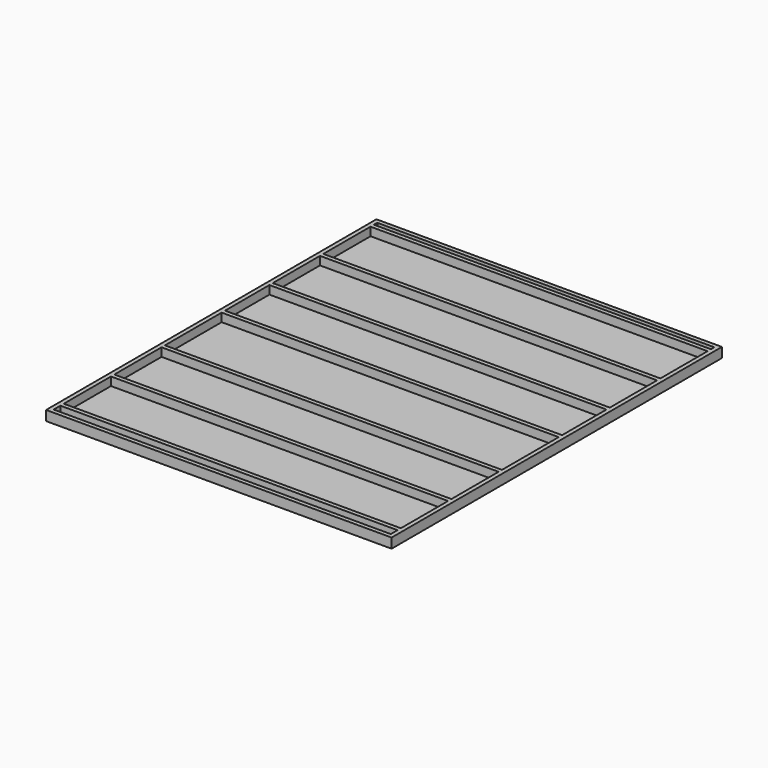
from build123d import *

# Parameters (mm, degrees)
F0_W     = 3124.2
F0_H     = 3733.8
F1_DEPTH = 12.7
F2_W     = 3048
F2_H     = 38.1
F3_DEPTH = 76.2


with BuildPart() as f1:
    # F0 (on Top) → F1 (new body)
    with BuildSketch(Plane.XY):
        Rectangle(F0_W, F0_H)
    extrude(amount=F1_DEPTH)

    # F2 (on face) → F3 (join)
    with BuildSketch(Plane.XY.offset(12.7)):
        Polygon((1562.1, 1866.9), (-1562.1, 1866.9), (-1562.1, 1828.8), (-1524, 1828.8), (1524, 1828.8), (1562.1, 1828.8), align=None)
        Polygon((-1524, 1828.8), (-1562.1, 1828.8), (-1562.1, -1828.8), (-1524, -1828.8), (-1524, -1752.6), (-1524, -1714.5), (-1524, -1181.1), (-1524, -1143), (-1524, -609.6), (-1524, -571.5), (-1524, 69.85), (-1524, 107.95), (-1524, 609.6), (-1524, 647.7), (-1524, 1181.1), (-1524, 1219.2), (-1524, 1752.6), (-1524, 1790.7), align=None)
        Polygon((1562.1, -1828.8), (1562.1, 1828.8), (1524, 1828.8), (1524, 1790.7), (1524, 1752.6), (1524, 1219.2), (1524, 1181.1), (1524, 647.7), (1524, 609.6), (1524, 107.95), (1524, 69.85), (1524, -38.1), (1524, -571.5), (1524, -609.6), (1524, -1143), (1524, -1181.1), (1524, -1714.5), (1524, -1752.6), (1524, -1828.8), align=None)
        Polygon((-1524, -1828.8), (-1562.1, -1828.8), (-1562.1, -1866.9), (1562.1, -1866.9), (1562.1, -1828.8), (1524, -1828.8), align=None)
        with Locations((0, 1771.65)):
            Rectangle(F2_W, F2_H)
        with Locations((0, 1200.15)):
            Rectangle(F2_W, F2_H)
        with Locations((0, 628.65)):
            Rectangle(F2_W, F2_H)
        with Locations((0, 88.9)):
            Rectangle(F2_W, F2_H)
        with Locations((0, -590.55)):
            Rectangle(F2_W, F2_H)
        with Locations((0, -1733.55)):
            Rectangle(F2_W, F2_H)
        with Locations((0, -1162.05)):
            Rectangle(F2_W, F2_H)
    extrude(amount=F3_DEPTH)


solid = f1.part
